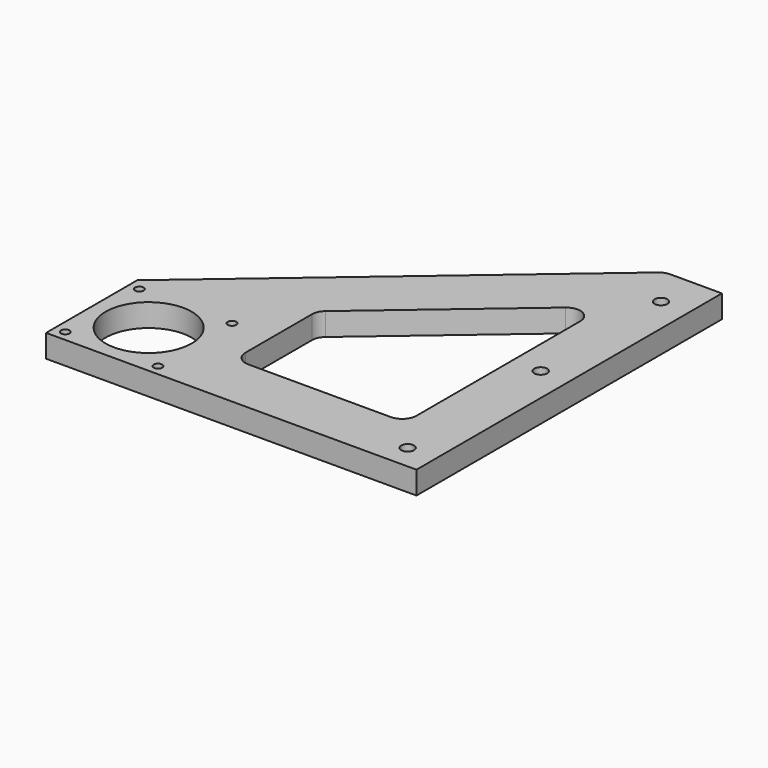
from build123d import *

# Parameters (mm, degrees)
F0_W     = 130
F0_H     = 40
F0_R     = 1.5
F0_R_2   = 15.1
F1_DEPTH = 8
F3_DEPTH = 8
F4_R     = 2.25
F5_DEPTH = 8.001
F6_R     = 5


with BuildPart() as f1:
    # F0 (on Top) → F1 (new body)
    with BuildSketch(Plane.XY):
        Rectangle(F0_W, F0_H)
        with Locations((-61.263456, -16.263456)):
            Circle(F0_R, mode=Mode.SUBTRACT)
        with Locations((-28.736544, -16.263456)):
            Circle(F0_R, mode=Mode.SUBTRACT)
        with Locations((-45, 0)):
            Circle(F0_R_2, mode=Mode.SUBTRACT)
        with Locations((-61.263456, 16.263456)):
            Circle(F0_R, mode=Mode.SUBTRACT)
        with Locations((-28.736544, 16.263456)):
            Circle(F0_R, mode=Mode.SUBTRACT)
    extrude(amount=F1_DEPTH)

    # F2 (on face) → F3 (join)
    with BuildSketch(Plane.XY.offset(8)):
        Polygon((65, 20), (65, 114), (45, 114), (-65, 20), align=None)
    extrude(amount=-F3_DEPTH)

    # F4 (on face) → F5 (cut, through all)
    with BuildSketch(Plane.XY.offset(8)):
        Polygon((-15, 36.419495), (-15, 0), (45, 0), (45, 87.692222), align=None)
        with Locations((55, 99.770185)):
            Circle(F4_R)
        with Locations((55, 47)):
            Circle(F4_R)
        with Locations((55, -11.382008)):
            Circle(F4_R)
    extrude(amount=-F5_DEPTH, mode=Mode.SUBTRACT)

    # F6
    f6_edges = [f1.edges().sort_by_distance(p)[0] for p in [
        (45, 114, 4),
        (-15, 36.419495, 4),
        (45, 87.692222, 4),
        (45, 0, 4),
        (-15, 0, 4),
    ]]
    fillet(f6_edges, radius=F6_R)


solid = f1.part
